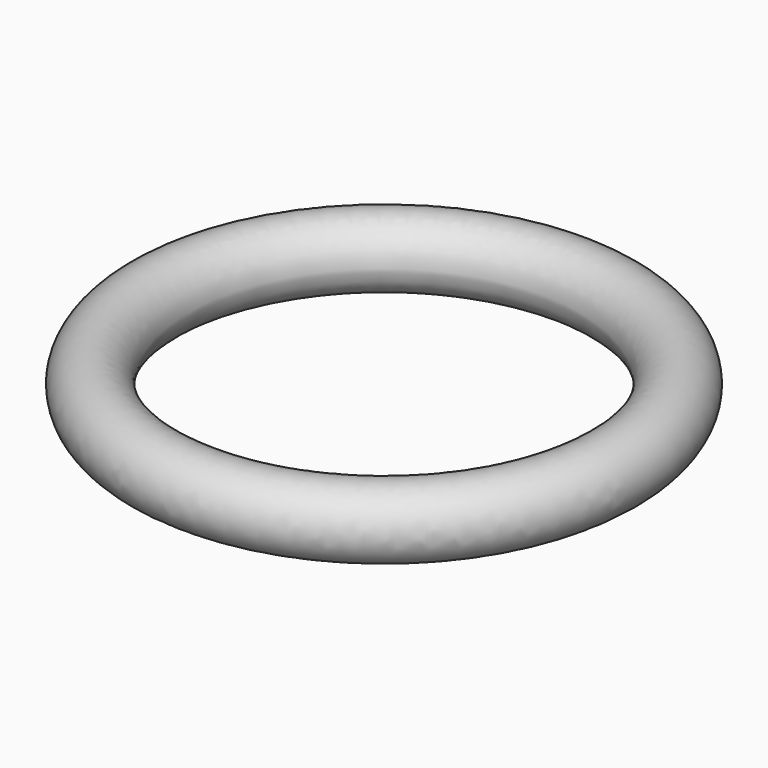
from build123d import *

# Parameters (mm, degrees)
F0_R = 0.381


with BuildPart() as f2:
    # F2: sweep along a path in F1
    with BuildLine(Plane.XY) as f2_path:
        CenterArc((2.538845, -0.076586), 2.54, 0, 360)
    # F0 (on Front) → F2 (sweep)
    with BuildSketch(Plane.XZ):
        Circle(F0_R)
    sweep(path=f2_path.line)


solid = f2.part
